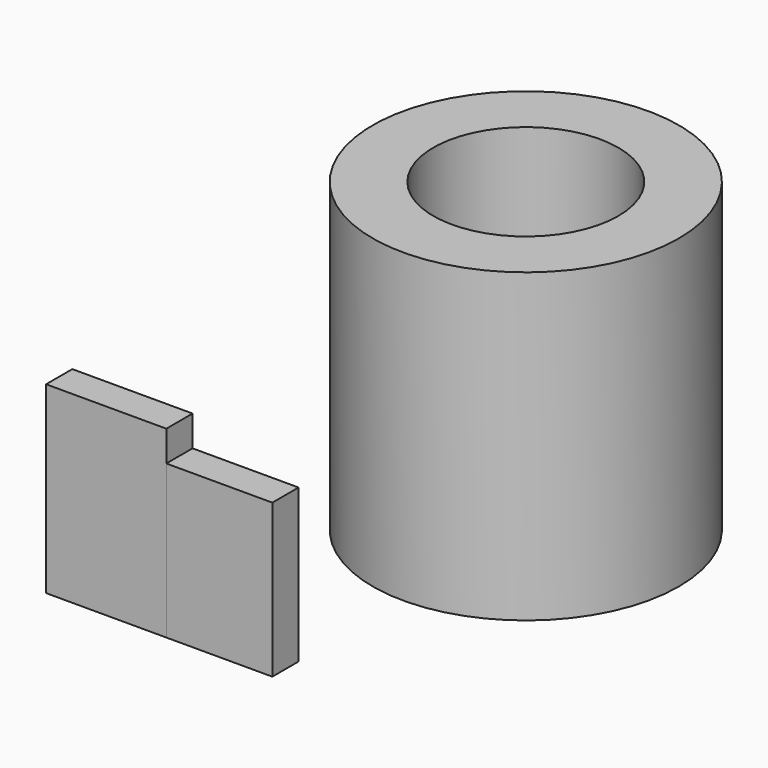
from build123d import *

# Parameters (mm, degrees)
F0_W     = 4.392329
F0_H     = 1.359405
F1_DEPTH = 6.35
F0_W_2   = 4.982502
F2_DEPTH = 7.62
F3_R     = 6.34651
F3_R_2   = 3.83461
F4_DEPTH = 12.7


with BuildPart() as f1:
    # F0 (on Top) → F1 (new body)
    with BuildSketch(Plane.XY):
        with Locations((7.178667, -0.679702)):
            Rectangle(F0_W, F0_H)
    extrude(amount=F1_DEPTH)


with BuildPart() as f2:
    # F0 (on Top) → F2 (new body)
    with BuildSketch(Plane.XY):
        with Locations((2.491251, -0.679702)):
            Rectangle(F0_W_2, F0_H)
    extrude(amount=F2_DEPTH)


with BuildPart() as f4:
    # F3 (on Top) → F4 (new body)
    with BuildSketch(Plane.XY):
        with Locations((9.354994, 11.797301)):
            Circle(F3_R)
        with Locations((9.354994, 11.797301)):
            Circle(F3_R_2, mode=Mode.SUBTRACT)
    extrude(amount=F4_DEPTH)


solid = Compound([f1.part, f2.part, f4.part])
